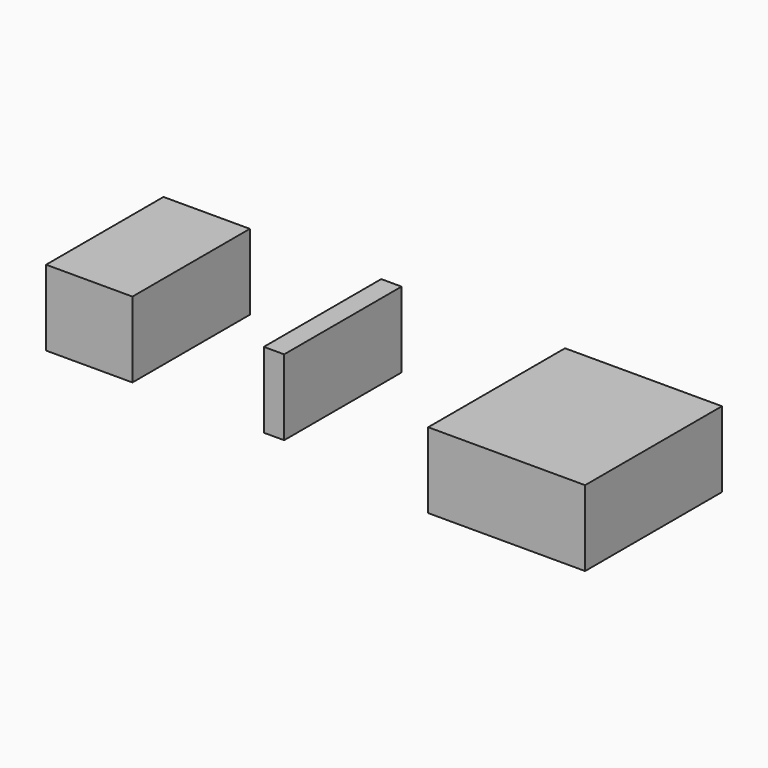
from build123d import *

# Parameters (mm, degrees)
F0_W     = 29.008364
F0_H     = 49.295259
F0_W_2   = 6.825497
F0_H_2   = 49.295262
F0_W_3   = 52.708008
F0_H_3   = 57.447938
F1_DEPTH = 25.4


with BuildPart() as f1:
    # F0 (on Top) → F1 (new body)
    with BuildSketch(Plane.XY):
        with Locations((-44.650131, -12.134218)):
            Rectangle(F0_W, F0_H)
        with Locations((18.01173, -12.892607)):
            Rectangle(F0_W_2, F0_H_2)
        with Locations((103.140857, -17.537736)):
            Rectangle(F0_W_3, F0_H_3)
    extrude(amount=F1_DEPTH)


solid = f1.part
